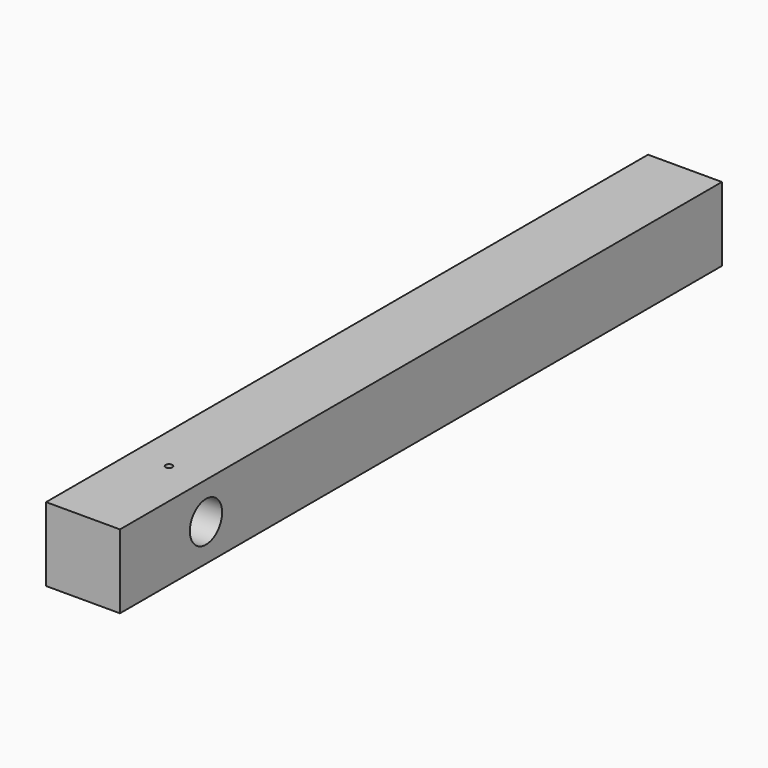
from build123d import *

# Parameters (mm, degrees)
F0_W     = 17.4625
F0_H     = 17.4625
F1_DEPTH = 177.8
F2_R     = 4.7625
F3_DEPTH = 17.4752
F4_R     = 0.79375
F5_DEPTH = 25.4


with BuildPart() as f1:
    # F0 (on Front) → F1 (new body)
    with BuildSketch(Plane.XZ):
        with Locations((-8.73125, 15.816035)):
            Rectangle(F0_W, F0_H)
    extrude(amount=F1_DEPTH)

    # F2 (on face) → F3 (cut)
    with BuildSketch(Plane(origin=(-17.4625, 0, 0), x_dir=(0, -1, 0), z_dir=(-1, 0, 0))):
        with Locations((152.4, 15.809685)):
            Circle(F2_R)
    extrude(amount=-F3_DEPTH, mode=Mode.SUBTRACT)

    # F4 (on face) → F5 (cut)
    with BuildSketch(Plane.XY.offset(24.547285)):
        with Locations((-8.73125, -152.4)):
            Circle(F4_R)
    extrude(amount=-F5_DEPTH, mode=Mode.SUBTRACT)


solid = f1.part
